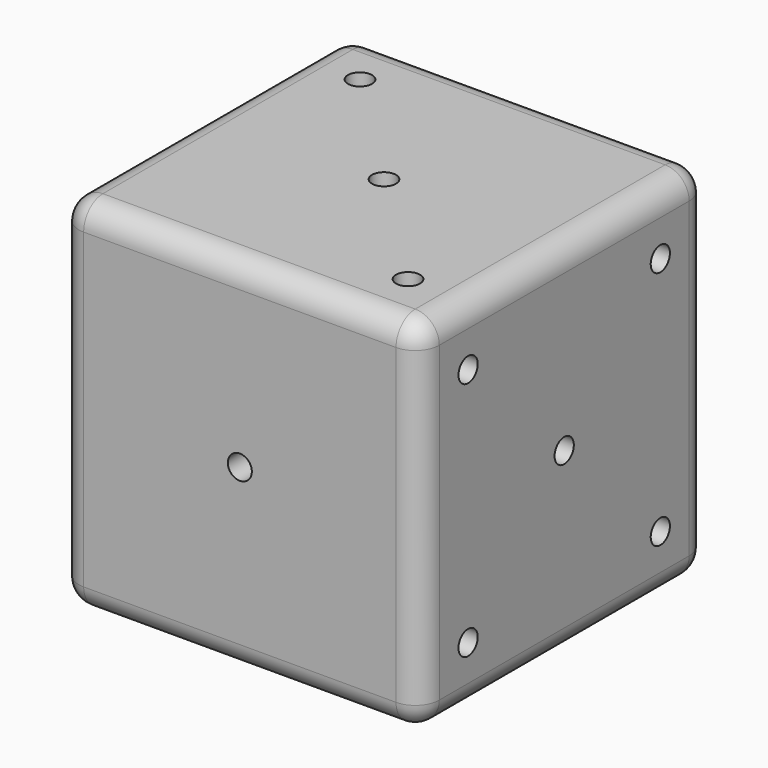
from build123d import *

# Parameters (mm, degrees)
F0_W      = 30
F0_H      = 30
F1_DEPTH  = 15
F2_R      = 2
F4_D      = 2
F4_DEPTH  = 2
F4_TIP    = 0.600860619
F6_D      = 2
F6_DEPTH  = 2
F6_TIP    = 0.600860619
F8_D      = 2
F8_DEPTH  = 2
F8_TIP    = 0.600860619
F10_D     = 2
F10_DEPTH = 2
F10_TIP   = 0.600860619
F12_D     = 2
F12_DEPTH = 2
F12_TIP   = 0.600860619
F14_D     = 2
F14_DEPTH = 2
F14_TIP   = 0.600860619


with BuildPart() as f1:
    # F0 (on Front) → F1 (new body, symmetric)
    with BuildSketch(Plane.XZ):
        Rectangle(F0_W, F0_H)
    extrude(amount=F1_DEPTH, both=True)

    # F2
    f2_edges = [f1.edges().sort_by_distance(p)[0] for p in [
        (15, 0, 15),
        (0, -15, 15),
        (0, 15, 15),
        (-15, 0, 15),
        (-15, 15, 0),
        (15, 15, 0),
        (15, -15, 0),
        (15, 0, -15),
        (0, -15, -15),
        (0, 15, -15),
        (-15, -15, 0),
        (-15, 0, -15),
    ]]
    fillet(f2_edges, radius=F2_R)

    # F4
    with Locations(Plane(origin=(0, 0, -15), x_dir=(1, 0, 0), z_dir=(0, 0, -1))):
        with Locations((-10, -10), (-10, 10), (10, 10), (10, -10)):
            Hole(F4_D / 2, depth=F4_DEPTH)
            with Locations((0, 0, -(F4_DEPTH + F4_TIP / 2))):  # 118° drill point
                Cone(0, F4_D / 2, F4_TIP, mode=Mode.SUBTRACT)

    # F6
    with Locations(Plane(origin=(0, 15, 0), x_dir=(-1, 0, 0), z_dir=(0, 1, 0))):
        with Locations((10, -10), (-10, -10), (10, 0), (10, 10), (-10, 0), (-10, 10)):
            Hole(F6_D / 2, depth=F6_DEPTH)
            with Locations((0, 0, -(F6_DEPTH + F6_TIP / 2))):  # 118° drill point
                Cone(0, F6_D / 2, F6_TIP, mode=Mode.SUBTRACT)

    # F8
    with Locations(Plane.XY.offset(15)):
        with Locations((0, 0), (10, -10), (-10, 10)):
            Hole(F8_D / 2, depth=F8_DEPTH)
            with Locations((0, 0, -(F8_DEPTH + F8_TIP / 2))):  # 118° drill point
                Cone(0, F8_D / 2, F8_TIP, mode=Mode.SUBTRACT)

    # F10
    with Locations(Plane.YZ.offset(15)):
        with Locations((-10, -10), (10, -10), (0, 0), (-10, 10), (10, 10)):
            Hole(F10_D / 2, depth=F10_DEPTH)
            with Locations((0, 0, -(F10_DEPTH + F10_TIP / 2))):  # 118° drill point
                Cone(0, F10_D / 2, F10_TIP, mode=Mode.SUBTRACT)

    # F12
    with Locations(Plane(origin=(-15, 0, 0), x_dir=(0, -1, 0), z_dir=(-1, 0, 0))):
        with Locations((-10, -10), (10, 10)):
            Hole(F12_D / 2, depth=F12_DEPTH)
            with Locations((0, 0, -(F12_DEPTH + F12_TIP / 2))):  # 118° drill point
                Cone(0, F12_D / 2, F12_TIP, mode=Mode.SUBTRACT)

    # F14
    with Locations(Plane.XZ.offset(15)):
        with Locations((0, 0)):
            Hole(F14_D / 2, depth=F14_DEPTH)
            with Locations((0, 0, -(F14_DEPTH + F14_TIP / 2))):  # 118° drill point
                Cone(0, F14_D / 2, F14_TIP, mode=Mode.SUBTRACT)


solid = f1.part
